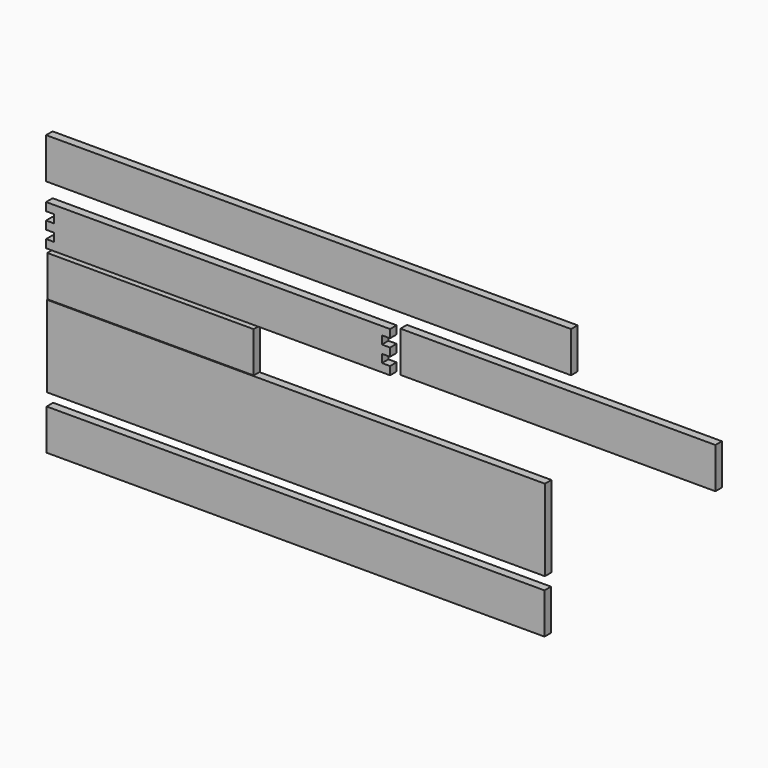
from build123d import *

# Parameters (mm, degrees)
F0_W      = 580
F0_H      = 45
F1_DEPTH  = 9
F2_W      = 9
F2_H      = 9
F3_DEPTH  = 9
F4_W      = 348
F4_H      = 45
F5_DEPTH  = 9
F6_W      = 228
F6_H      = 45
F7_DEPTH  = 9
F8_W      = 550
F8_H      = 90
F9_DEPTH  = 9
F10_W     = 550
F10_H     = 45
F11_DEPTH = 9


with BuildPart() as f1:
    # F0 (on Front) → F1 (new body)
    with BuildSketch(Plane.XZ):
        with Locations((-291.652689, 279.135075)):
            Rectangle(F0_W, F0_H)
    extrude(amount=F1_DEPTH)


with BuildPart() as f3:
    # F2 (on Front) → F3 (new body)
    with BuildSketch(Plane.XZ):
        Polygon((-572.635822, 236.600574), (-581.635822, 236.600574), (-581.635822, 227.600574), (-572.635822, 227.600574), (-572.635822, 218.600574), (-581.635822, 218.600574), (-581.635822, 209.600574), (-572.635822, 209.600574), (-572.635822, 200.600574), (-581.635822, 200.600574), (-581.635822, 191.600574), (-572.635822, 191.600574), (-210.635822, 191.600574), (-201.635822, 191.600574), (-201.635822, 196.600574), (-201.635822, 200.600574), (-210.635822, 200.600574), (-210.635822, 209.600574), (-201.635822, 209.600574), (-201.635822, 218.600574), (-210.635822, 218.600574), (-210.635822, 227.600574), (-210.635822, 236.600574), align=None)
        with Locations((-206.135822, 232.100574)):
            Rectangle(F2_W, F2_H)
    extrude(amount=F3_DEPTH)


with BuildPart() as f5:
    # F4 (on Front) → F5 (new body)
    with BuildSketch(Plane.XZ):
        with Locations((-16.199863, 218.208126)):
            Rectangle(F4_W, F4_H)
    extrude(amount=F5_DEPTH)


with BuildPart() as f7:
    # F6 (on Front) → F7 (new body)
    with BuildSketch(Plane.XZ):
        with Locations((-466.329738, 164.974428)):
            Rectangle(F6_W, F6_H)
    extrude(amount=F7_DEPTH)


with BuildPart() as f9:
    # F8 (on Front) → F9 (new body)
    with BuildSketch(Plane.XZ):
        with Locations((-305.584455, 96.802367)):
            Rectangle(F8_W, F8_H)
    extrude(amount=F9_DEPTH)


with BuildPart() as f11:
    # F10 (on Front) → F11 (new body)
    with BuildSketch(Plane.XZ):
        with Locations((-306.044923, 15.400222)):
            Rectangle(F10_W, F10_H)
    extrude(amount=F11_DEPTH)


solid = Compound([f1.part, f3.part, f5.part, f7.part, f9.part, f11.part])
